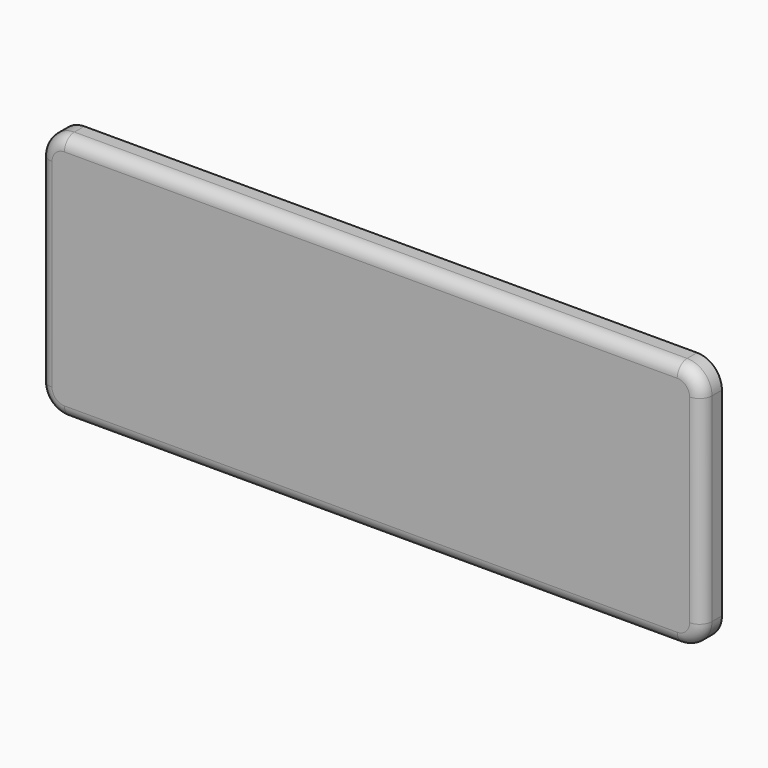
from build123d import *

# Parameters (mm, degrees)
F1_DEPTH = 3
F2_R     = 1.5


with BuildPart() as f1:
    # F0 (on Front) → F1 (new body)
    with BuildSketch(Plane.XZ):
        with BuildLine():
            Line((-37, -15), (37, -15))
            ThreePointArc((37, -15), (39.12132, -14.12132), (40, -12))
            Line((40, -12), (40, 12))
            ThreePointArc((40, 12), (39.12132, 14.12132), (37, 15))
            Line((37, 15), (-37, 15))
            ThreePointArc((-37, 15), (-39.12132, 14.12132), (-40, 12))
            Line((-40, 12), (-40, -12))
            ThreePointArc((-40, -12), (-39.12132, -14.12132), (-37, -15))
        make_face()
    extrude(amount=F1_DEPTH)

    # F2
    f2_edges = [f1.edges().sort_by_distance(p)[0] for p in [
        (0, -3, -15),
    ]]
    fillet(f2_edges, radius=F2_R)


solid = f1.part
